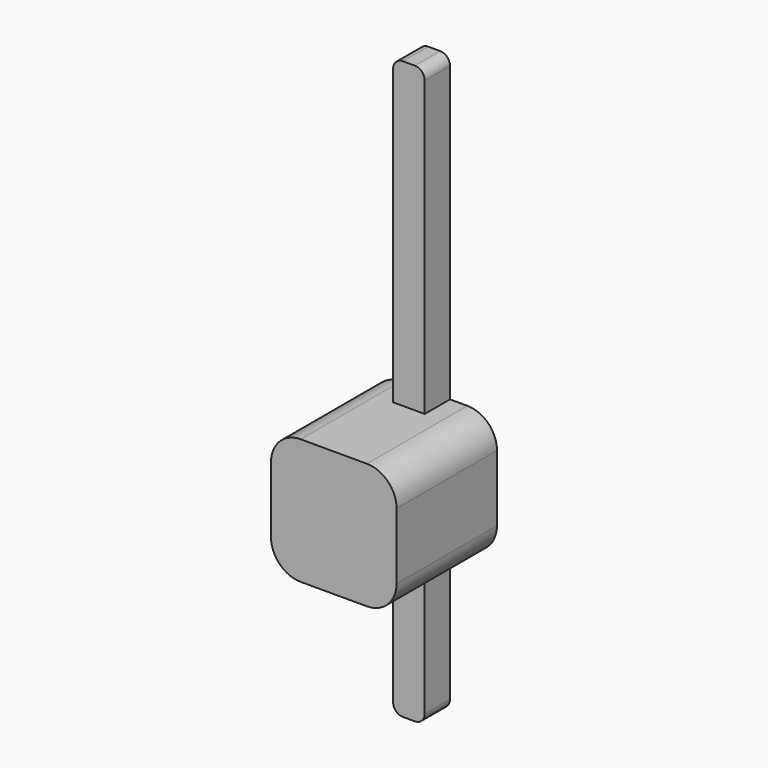
from build123d import *

# Parameters (mm, degrees)
F0_W     = 0.64
F0_H     = 2.54
F1_DEPTH = 2.54
F2_DEPTH = 0.64


with BuildPart() as f1:
    # F0 (on Front) → F1 (new body)
    with BuildSketch(Plane.XZ):
        with BuildLine():
            Line((-0.32, 1.27), (-0.67, 1.27))
            ThreePointArc((-0.67, 1.27), (-1.0942640687, 1.0942640687), (-1.27, 0.67))
            Line((-1.27, 0.67), (-1.27, -0.67))
            ThreePointArc((-1.27, -0.67), (-1.0942640687, -1.0942640687), (-0.67, -1.27))
            Line((-0.67, -1.27), (-0.32, -1.27))
            Line((-0.32, -1.27), (-0.32, 1.27))
        make_face()
        with BuildLine():
            Line((0.67, 1.27), (0.32, 1.27))
            Line((0.32, 1.27), (0.32, -1.27))
            Line((0.32, -1.27), (0.67, -1.27))
            ThreePointArc((0.67, -1.27), (1.0942640687, -1.0942640687), (1.27, -0.67))
            Line((1.27, -0.67), (1.27, 0.67))
            ThreePointArc((1.27, 0.67), (1.0942640687, 1.0942640687), (0.67, 1.27))
        make_face()
        Rectangle(F0_W, F0_H)
    extrude(amount=F1_DEPTH)

    # F0 (on Front) → F2 (join)
    with BuildSketch(Plane.XZ):
        with BuildLine():
            Line((-0.32, 7.21), (-0.32, 1.27))
            Line((-0.32, 1.27), (0.32, 1.27))
            Line((0.32, 1.27), (0.32, 7.21))
            ThreePointArc((0.32, 7.21), (0.2614213562, 7.3514213562), (0.12, 7.41))
            Line((0.12, 7.41), (-0.12, 7.41))
            ThreePointArc((-0.12, 7.41), (-0.2614213562, 7.3514213562), (-0.32, 7.21))
        make_face()
        Rectangle(F0_W, F0_H)
        with BuildLine():
            Line((-0.32, 1.27), (-0.67, 1.27))
            ThreePointArc((-0.67, 1.27), (-1.0942640687, 1.0942640687), (-1.27, 0.67))
            Line((-1.27, 0.67), (-1.27, -0.67))
            ThreePointArc((-1.27, -0.67), (-1.0942640687, -1.0942640687), (-0.67, -1.27))
            Line((-0.67, -1.27), (-0.32, -1.27))
            Line((-0.32, -1.27), (-0.32, 1.27))
        make_face()
        with BuildLine():
            Line((-0.32, 7.21), (-0.32, 1.27))
            Line((-0.32, 1.27), (0.32, 1.27))
            Line((0.32, 1.27), (0.32, 7.21))
            ThreePointArc((0.32, 7.21), (0.2614213562, 7.3514213562), (0.12, 7.41))
            Line((0.12, 7.41), (-0.12, 7.41))
            ThreePointArc((-0.12, 7.41), (-0.2614213562, 7.3514213562), (-0.32, 7.21))
        make_face()
        Rectangle(F0_W, F0_H)
        with BuildLine():
            Line((0.67, 1.27), (0.32, 1.27))
            Line((0.32, 1.27), (0.32, -1.27))
            Line((0.32, -1.27), (0.67, -1.27))
            ThreePointArc((0.67, -1.27), (1.0942640687, -1.0942640687), (1.27, -0.67))
            Line((1.27, -0.67), (1.27, 0.67))
            ThreePointArc((1.27, 0.67), (1.0942640687, 1.0942640687), (0.67, 1.27))
        make_face()
        with BuildLine():
            Line((0.32, -1.27), (-0.32, -1.27))
            Line((-0.32, -1.27), (-0.32, -4.07))
            ThreePointArc((-0.32, -4.07), (-0.2614213562, -4.2114213562), (-0.12, -4.27))
            Line((-0.12, -4.27), (0.12, -4.27))
            ThreePointArc((0.12, -4.27), (0.2614213562, -4.2114213562), (0.32, -4.07))
            Line((0.32, -4.07), (0.32, -1.27))
        make_face()
    extrude(amount=F2_DEPTH)


solid = f1.part
